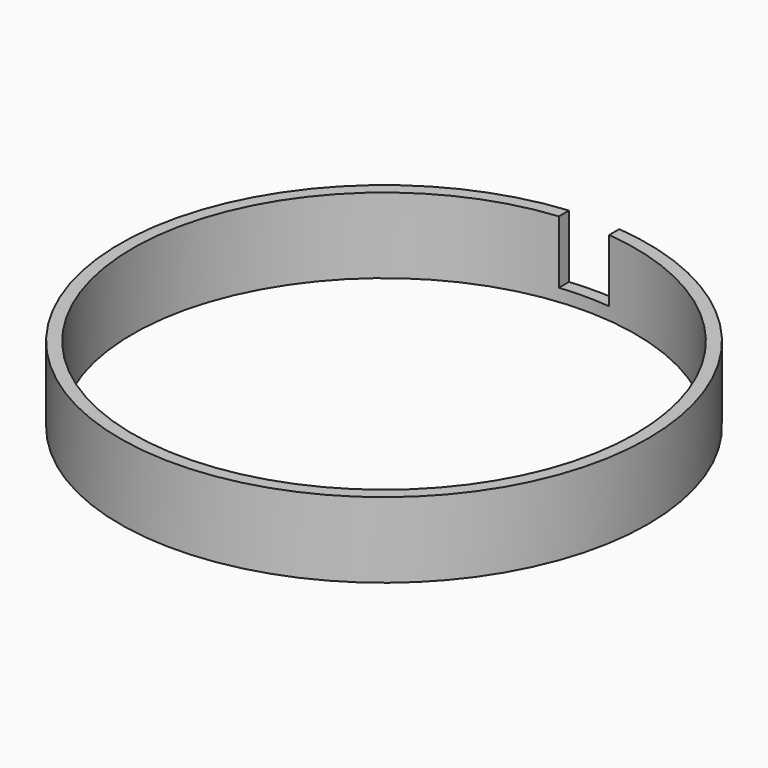
from build123d import *

# Parameters (mm, degrees)
SKETCH002_R   = 42
SKETCH002_R_2 = 40
PAD001_DEPTH  = 12
SKETCH003_W   = 8
SKETCH003_H   = 12
POCKET_DEPTH  = 42.001


with BuildPart() as part:
    # Sketch002 → Pad001 (new body)
    with BuildSketch(Plane.XY):
        Circle(SKETCH002_R)
        Circle(SKETCH002_R_2, mode=Mode.SUBTRACT)
    extrude(amount=PAD001_DEPTH)

    # Sketch003 → Pocket (cut, through all)
    with BuildSketch(Plane.XZ):
        with Locations((0, 8)):
            Rectangle(SKETCH003_W, SKETCH003_H)
    extrude(amount=-POCKET_DEPTH, mode=Mode.SUBTRACT)


solid = part.part
